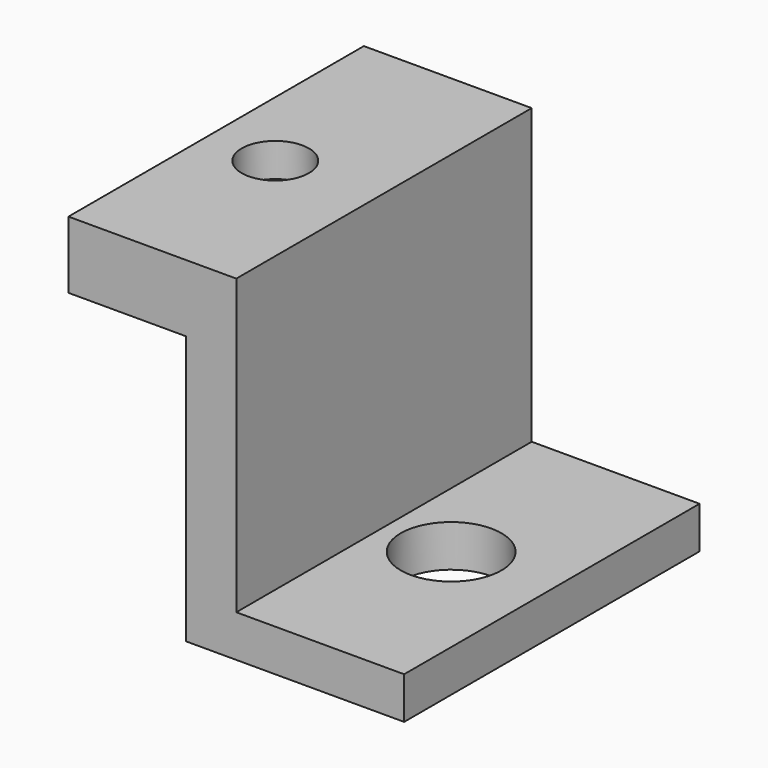
from build123d import *

# Parameters (mm, degrees)
F1_DEPTH       = 22
F3_D           = 6
F5_D           = 1.5
F5_CBORE_D     = 4
F5_CBORE_DEPTH = 2


with BuildPart() as f1:
    # F0 (on Front) → F1 (new body)
    with BuildSketch(Plane.XZ):
        Polygon((-13, 0), (0, 0), (0, 2.5), (-10, 2.5), (-10, 20), (-20, 20), (-20, 16), (-13, 16), align=None)
    extrude(amount=F1_DEPTH)

    # F3 (through all)
    with Locations(Plane.XY.offset(2.5)):
        with Locations((-6, -11)):
            Hole(F3_D / 2)

    # F5 (through all)
    with Locations(Plane.XY.offset(20)):
        with Locations((-16, -11.594802)):
            CounterBoreHole(F5_D / 2, F5_CBORE_D / 2, F5_CBORE_DEPTH)


solid = f1.part
